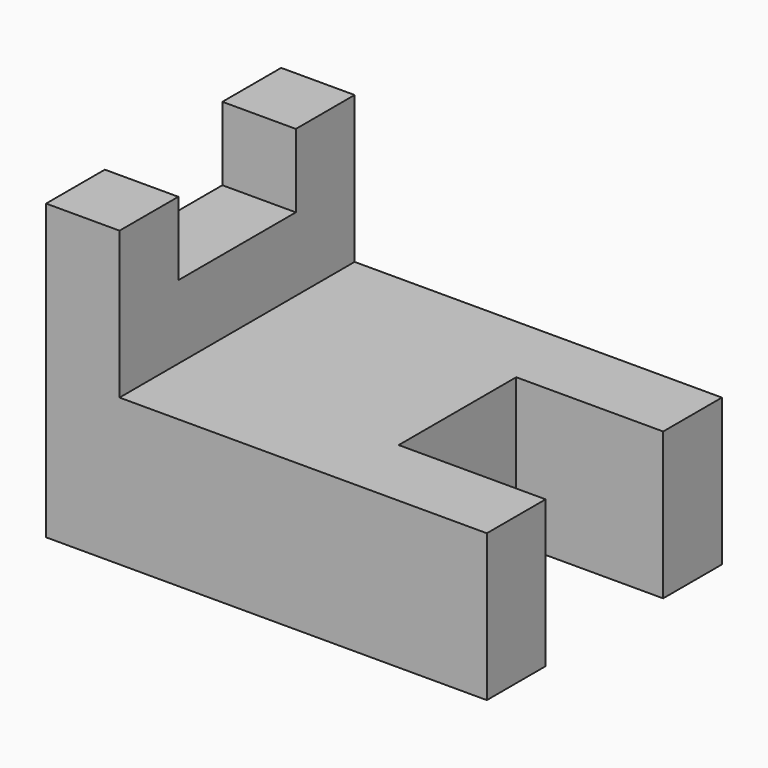
from build123d import *

# Parameters (mm, degrees)
F1_DEPTH = 12.7
F0_W     = 6.35
F0_H     = 12.7
F2_DEPTH = 19.05
F0_H_2   = 6.35
F3_DEPTH = 25.4


with BuildPart() as f1:
    # F0 (on Top) → F1 (new body)
    with BuildSketch(Plane.XY):
        Polygon((6.35, 6.35), (6.35, 0), (38.1, 0), (38.1, 6.35), (25.4, 6.35), (25.4, 19.05), (38.1, 19.05), (38.1, 25.4), (6.35, 25.4), (6.35, 19.05), align=None)
    extrude(amount=F1_DEPTH)

    # F0 (on Top) → F2 (join)
    with BuildSketch(Plane.XY):
        with Locations((3.175, 12.7)):
            Rectangle(F0_W, F0_H)
    extrude(amount=F2_DEPTH)

    # F0 (on Top) → F3 (join)
    with BuildSketch(Plane.XY):
        with Locations((3.175, 3.175)):
            Rectangle(F0_W, F0_H_2)
        with Locations((3.175, 22.225)):
            Rectangle(F0_W, F0_H_2)
    extrude(amount=F3_DEPTH)


solid = f1.part
